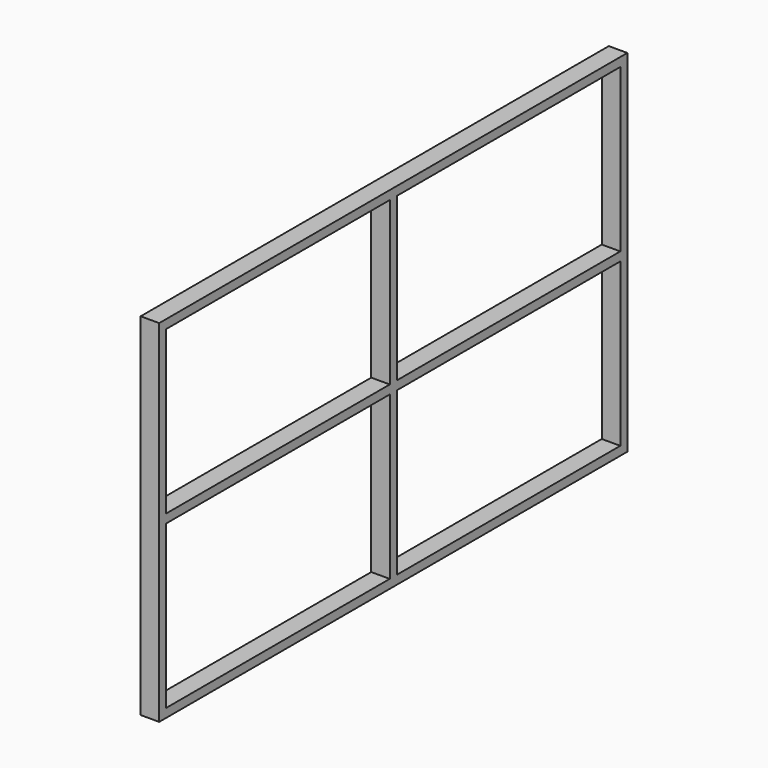
from build123d import *

# Parameters (mm, degrees)
F0_W     = 1432.5
F0_H     = 45
F1_DEPTH = 95


with BuildPart() as f1:
    # F0 (on Right) → F1 (new body)
    with BuildSketch(Plane.YZ):
        Polygon((1500, 900), (-1500, 900), (-1500, 855), (-1455, 855), (-22.5, 855), (22.5, 855), (1455, 855), (1500, 855), align=None)
        Polygon((-1455, 855), (-1500, 855), (-1500, -855), (-1455, -855), (-1455, -22.5), (-1455, 22.5), align=None)
        Polygon((1500, -855), (1500, 855), (1455, 855), (1455, 22.5), (1455, -22.5), (1455, -855), align=None)
        Polygon((-1455, -855), (-1500, -855), (-1500, -900), (1500, -900), (1500, -855), (1455, -855), (22.5, -855), (-22.5, -855), align=None)
        with Locations((-738.75, 0)):
            Rectangle(F0_W, F0_H)
        with Locations((738.75, 0)):
            Rectangle(F0_W, F0_H)
        Polygon((22.5, 855), (-22.5, 855), (-22.5, 22.5), (-22.5, -22.5), (-22.5, -855), (22.5, -855), (22.5, -22.5), (22.5, 22.5), align=None)
    extrude(amount=F1_DEPTH)


solid = f1.part
